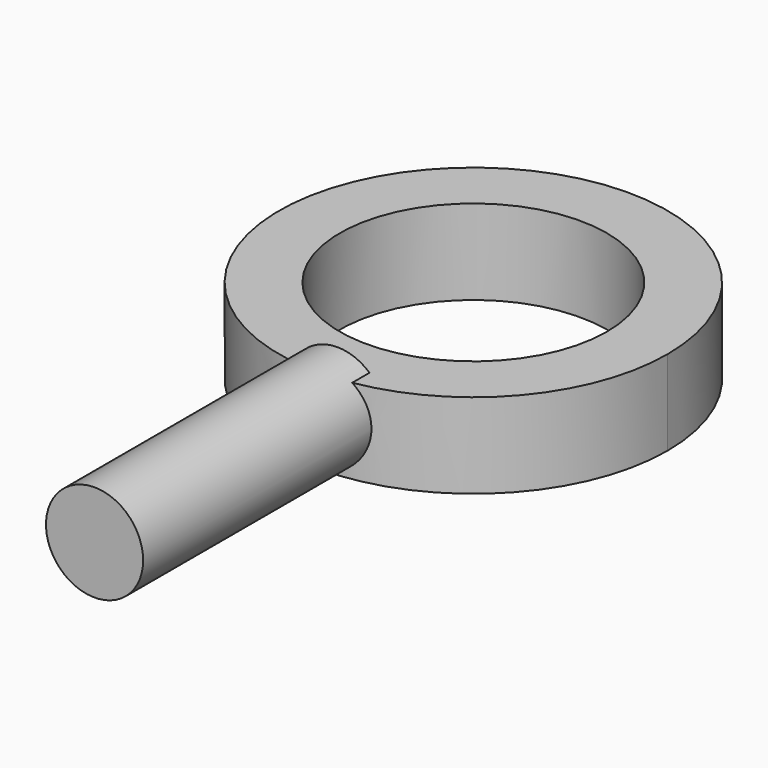
from build123d import *

# Parameters (mm, degrees)
SKETCH_R     = 16
SKETCH_R_2   = 11
PAD_DEPTH    = 7
SKETCH001_R  = 4
PAD001_DEPTH = 25


with BuildPart() as part:
    # Sketch → Pad (new body)
    with BuildSketch(Plane.XY):
        Circle(SKETCH_R)
        Circle(SKETCH_R_2, mode=Mode.SUBTRACT)
    extrude(amount=PAD_DEPTH)

    # Sketch001 → Pad001 (join)
    with BuildSketch(Plane.XZ.offset(14)):
        with Locations((0, 4)):
            Circle(SKETCH001_R)
    extrude(amount=PAD001_DEPTH)


solid = part.part
